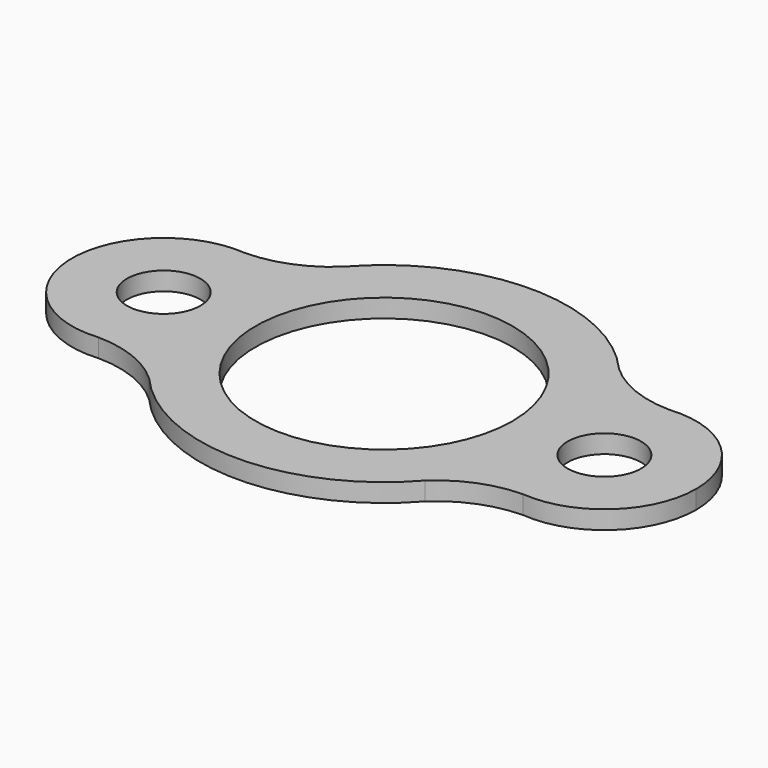
from build123d import *

# Parameters (mm, degrees)
F0_R     = 12.7
F1_DEPTH = 6.35


with BuildPart() as f1:
    # F0 (on Top) → F1 (new body)
    with BuildSketch(Plane.XY):
        with BuildLine():
            ThreePointArc((-63.5, 0), (-62.0954029096, 13.2819779212), (-57.94375, 25.976370723))
            ThreePointArc((-57.94375, 25.976370723), (-65.2892675199, 29.8164118691), (-73.3783848407, 31.6243733202))
            ThreePointArc((-73.3783848407, 31.6243733202), (-107.95, 0), (-73.3783848407, -31.6243733202))
            ThreePointArc((-73.3783848407, -31.6243733202), (-65.2892675199, -29.8164118691), (-57.94375, -25.976370723))
            ThreePointArc((-57.94375, -25.976370723), (-62.0954029096, -13.2819779212), (-63.5, 0))
        make_face()
        with Locations((-76.2, 0)):
            Circle(F0_R, mode=Mode.SUBTRACT)
        with BuildLine():
            ThreePointArc((-57.94375, -25.976370723), (-48.024670033, -14.636026826), (-44.45, 0))
            ThreePointArc((-44.45, 0), (-48.024670033, 14.636026826), (-57.94375, 25.976370723))
            ThreePointArc((-57.94375, 25.976370723), (-62.0954029096, 13.2819779212), (-63.5, 0))
            ThreePointArc((-63.5, 0), (-62.0954029096, -13.2819779212), (-57.94375, -25.976370723))
        make_face()
        with BuildLine():
            ThreePointArc((57.94375, -25.976370723), (48.024670033, -14.636026826), (44.45, 0))
            ThreePointArc((44.45, 0), (0, -44.45), (-44.45, 0))
            ThreePointArc((-44.45, 0), (-48.024670033, -14.636026826), (-57.94375, -25.976370723))
            ThreePointArc((-57.94375, -25.976370723), (-53.4352444367, -34.3063354497), (-47.7378395074, -41.8730065694))
            ThreePointArc((-47.7378395074, -41.8730065694), (0, -63.5), (47.7378395074, -41.8730065694))
            ThreePointArc((47.7378395074, -41.8730065694), (53.4352444367, -34.3063354497), (57.94375, -25.976370723))
        make_face()
        with BuildLine():
            ThreePointArc((-47.7378395074, -41.8730065694), (-53.4352444367, -34.3063354497), (-57.94375, -25.976370723))
            ThreePointArc((-57.94375, -25.976370723), (-65.2892675199, -29.8164118691), (-73.3783848407, -31.6243733202))
            ThreePointArc((-73.3783848407, -31.6243733202), (-59.5969903083, -34.344106995), (-47.7378395074, -41.8730065694))
        make_face()
        with BuildLine():
            ThreePointArc((-73.3783848407, 31.6243733202), (-65.2892675199, 29.8164118691), (-57.94375, 25.976370723))
            ThreePointArc((-57.94375, 25.976370723), (-53.4352444367, 34.3063354497), (-47.7378395074, 41.8730065694))
            ThreePointArc((-47.7378395074, 41.8730065694), (-59.5969903083, 34.344106995), (-73.3783848407, 31.6243733202))
        make_face()
        with BuildLine():
            ThreePointArc((-44.45, 0), (0, 44.45), (44.45, 0))
            ThreePointArc((44.45, 0), (48.024670033, 14.636026826), (57.94375, 25.976370723))
            ThreePointArc((57.94375, 25.976370723), (53.4352444367, 34.3063354497), (47.7378395074, 41.8730065694))
            ThreePointArc((47.7378395074, 41.8730065694), (0, 63.5), (-47.7378395074, 41.8730065694))
            ThreePointArc((-47.7378395074, 41.8730065694), (-53.4352444367, 34.3063354497), (-57.94375, 25.976370723))
            ThreePointArc((-57.94375, 25.976370723), (-48.024670033, 14.636026826), (-44.45, 0))
        make_face()
        with BuildLine():
            ThreePointArc((73.3783848407, 31.6243733202), (65.2892675199, 29.8164118691), (57.94375, 25.976370723))
            ThreePointArc((57.94375, 25.976370723), (62.0954029096, 13.2819779212), (63.5, 0))
            ThreePointArc((63.5, 0), (62.0954029096, -13.2819779212), (57.94375, -25.976370723))
            ThreePointArc((57.94375, -25.976370723), (65.2892675199, -29.8164118691), (73.3783848407, -31.6243733202))
            ThreePointArc((73.3783848407, -31.6243733202), (97.6298415614, -23.4270013159), (107.95, 0))
            ThreePointArc((107.95, 0), (97.6298415614, 23.4270013159), (73.3783848407, 31.6243733202))
        make_face()
        with BuildLine():
            ThreePointArc((88.9, 0), (76.2, -12.7), (63.5, 0))
            ThreePointArc((63.5, 0), (76.2, 12.7), (88.9, 0))
        make_face(mode=Mode.SUBTRACT)
        with BuildLine():
            ThreePointArc((57.94375, 25.976370723), (48.024670033, 14.636026826), (44.45, 0))
            ThreePointArc((44.45, 0), (48.024670033, -14.636026826), (57.94375, -25.976370723))
            ThreePointArc((57.94375, -25.976370723), (62.0954029096, -13.2819779212), (63.5, 0))
            ThreePointArc((63.5, 0), (62.0954029096, 13.2819779212), (57.94375, 25.976370723))
        make_face()
        with BuildLine():
            ThreePointArc((47.7378395074, 41.8730065694), (53.4352444367, 34.3063354497), (57.94375, 25.976370723))
            ThreePointArc((57.94375, 25.976370723), (65.2892675199, 29.8164118691), (73.3783848407, 31.6243733202))
            ThreePointArc((73.3783848407, 31.6243733202), (59.5969903083, 34.344106995), (47.7378395074, 41.8730065694))
        make_face()
        with BuildLine():
            ThreePointArc((73.3783848407, -31.6243733202), (65.2892675199, -29.8164118691), (57.94375, -25.976370723))
            ThreePointArc((57.94375, -25.976370723), (53.4352444367, -34.3063354497), (47.7378395074, -41.8730065694))
            ThreePointArc((47.7378395074, -41.8730065694), (59.5969903083, -34.344106995), (73.3783848407, -31.6243733202))
        make_face()
    extrude(amount=F1_DEPTH)


solid = f1.part
